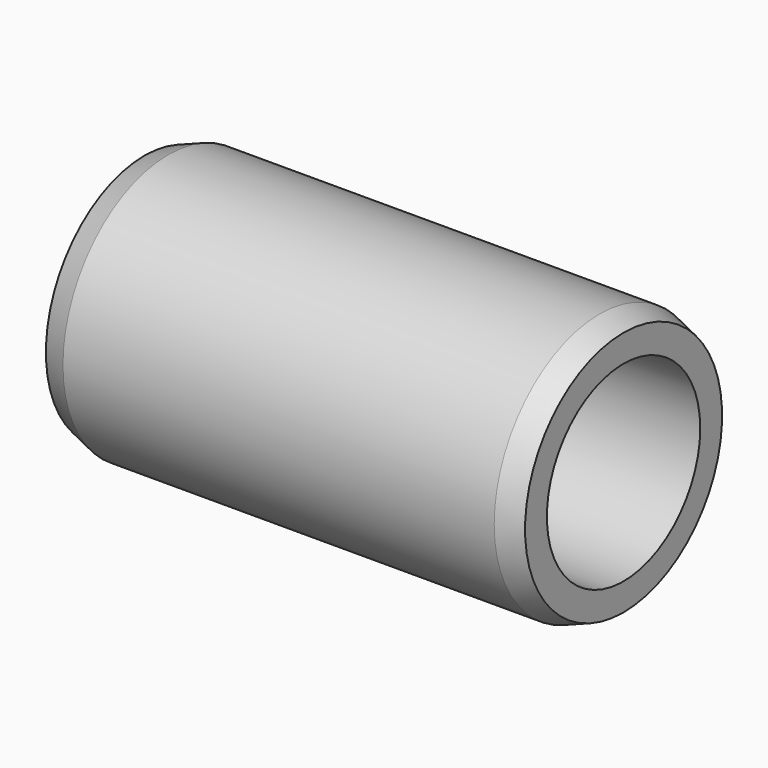
from build123d import *

# Parameters (mm, degrees)
F2_R     = 2
F3_DEPTH = 10


with BuildPart() as f1:
    # F0 (on Front) → F1 (revolve)
    with BuildSketch(Plane.XZ):
        Polygon((-5, 2.57), (-5, 0), (0, 0), (5, 0), (5, 2.57), (4.5, 2.75), (-4.5, 2.75), align=None)
    revolve(axis=Axis((-2.5, 0, 0), (-1, 0, 0)))

    # F2 (on face) → F3 (cut, through all)
    with BuildSketch(Plane.YZ.offset(5)):
        Circle(F2_R)
    extrude(amount=-F3_DEPTH, mode=Mode.SUBTRACT)


solid = f1.part
